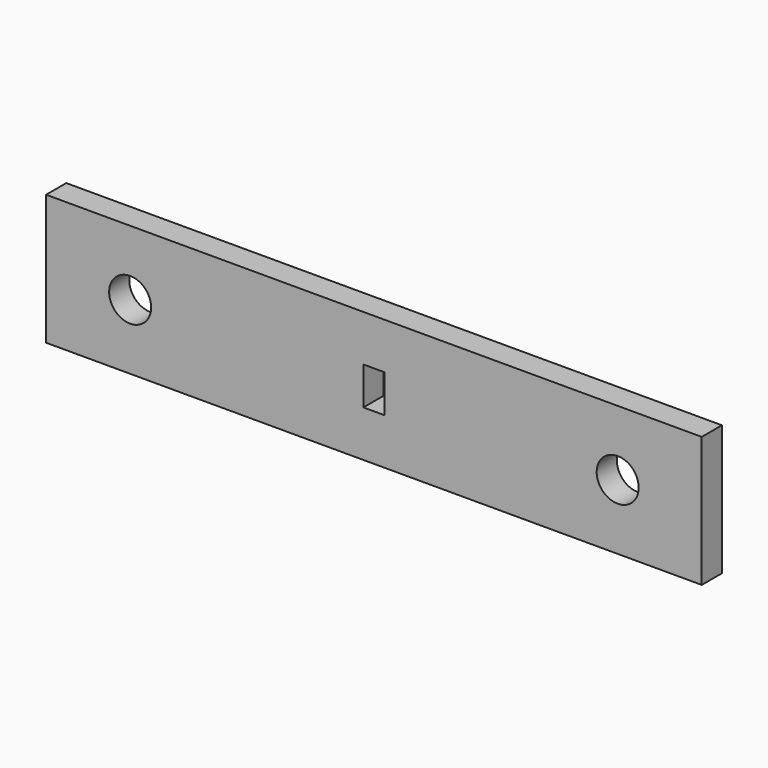
from build123d import *

# Parameters (mm, degrees)
F0_W     = 78
F0_H     = 15.503908
F0_R     = 2.5
F0_W_2   = 2.5
F0_H_2   = 4.5
F1_DEPTH = 1.5


with BuildPart() as f1:
    # F0 (on Front) → F1 (new body, symmetric)
    with BuildSketch(Plane.XZ):
        Rectangle(F0_W, F0_H)
        with Locations((-29, 0)):
            Circle(F0_R, mode=Mode.SUBTRACT)
        Rectangle(F0_W_2, F0_H_2, mode=Mode.SUBTRACT)
        with Locations((29, 0)):
            Circle(F0_R, mode=Mode.SUBTRACT)
    extrude(amount=F1_DEPTH, both=True)


solid = f1.part
